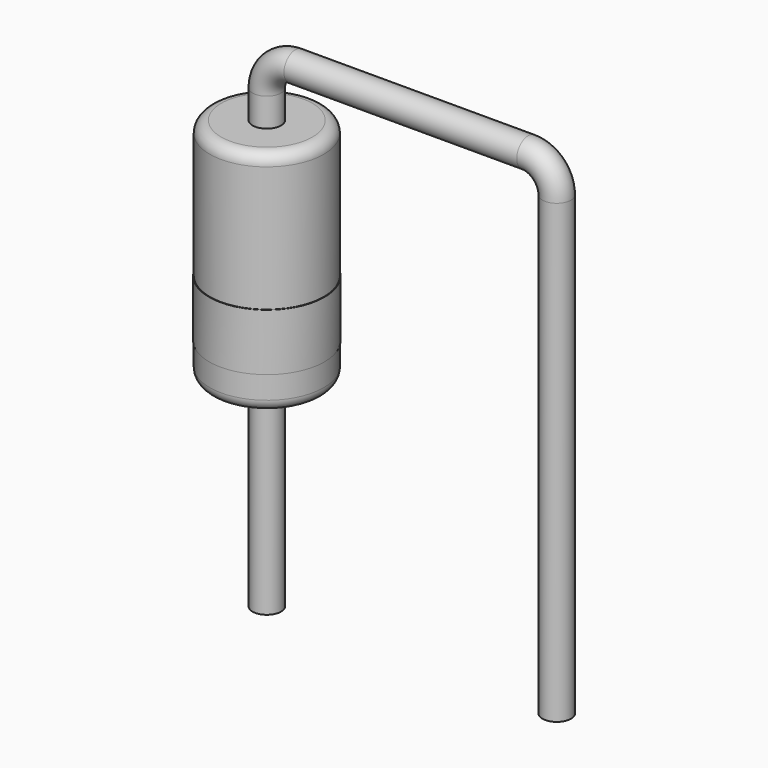
from build123d import *

# Parameters (mm, degrees)
SKETCH001_R = 0.25
SKETCH003_W = 0.02
SKETCH003_H = 1
SKETCH002_W = 1
SKETCH002_H = 4
FILLET_R    = 0.2


with BuildPart() as sweep_body:
    # Sweep: sweep along a path in Sketch
    with BuildLine(Plane.XZ) as sweep_path:
        Line((0, -3), (0, 5))
        ThreePointArc((0, 5), (0.146447, 5.353553), (0.5, 5.5))
        Line((0.5, 5.5), (4.58, 5.5))
        ThreePointArc((4.58, 5.5), (4.933553, 5.353553), (5.08, 5))
        Line((5.08, 5), (5.08, -3))
    # Sketch001 → Sweep (sweep)
    with BuildSketch(Plane.XY):
        Circle(SKETCH001_R)
    sweep(path=sweep_path.line)


with BuildPart() as revolution001:
    # Sketch003 → Revolution001 (revolve)
    with BuildSketch(Plane.XZ):
        with Locations((1, 1.6)):
            Rectangle(SKETCH003_W, SKETCH003_H)
    revolve(axis=Axis((0, 0, 5.9), (0, 0, 1)))


with BuildPart() as fillet_body:
    # Sketch002 → Revolution (revolve)
    with BuildSketch(Plane.XZ):
        with Locations((0.5, 2.5)):
            Rectangle(SKETCH002_W, SKETCH002_H)
    revolve(axis=Axis((0, 0, 0.5), (0, 0, 1)))

    # Fillet
    fillet_edges = [fillet_body.edges().sort_by_distance(p)[0] for p in [
        (-1, 0, 4.5),
        (-1, 0, 0.5),
    ]]
    fillet(fillet_edges, radius=FILLET_R)


solid = Compound([sweep_body.part, revolution001.part, fillet_body.part])
